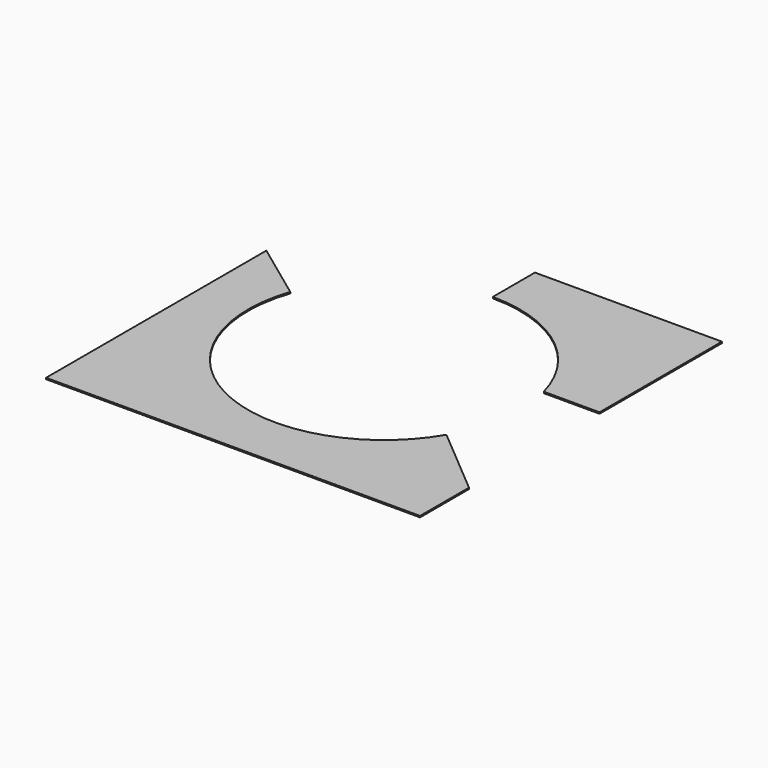
from build123d import *

# Parameters (mm, degrees)
F1_DEPTH = 2


with BuildPart() as f1:
    # F0 (on Top) → F1 (new body)
    with BuildSketch(Plane.XY):
        with BuildLine():
            Line((-275, 127.5), (-275, -277.5))
            Line((-275, -277.5), (275, -277.5))
            Line((275, -277.5), (275, -187.5))
            Line((275, -187.5), (172.645147, -100.963624))
            ThreePointArc((172.645147, -100.963624), (148.323163, -134.164971), (117.720107, -161.684806))
            ThreePointArc((117.720107, -161.684806), (-118.58986, -161.047959), (-189.340063, 64.423137))
            Line((-189.340063, 64.423137), (-275, 127.5))
        make_face()
        with BuildLine():
            Line((192.986398, 52.5), (275, 52.5))
            Line((275, 52.5), (275, 277.5))
            Line((275, 277.5), (0, 277.5))
            Line((0, 277.5), (0, 200))
            ThreePointArc((0, 200), (121.449578, 158.902486), (192.986398, 52.5))
        make_face()
    extrude(amount=F1_DEPTH)


solid = f1.part
